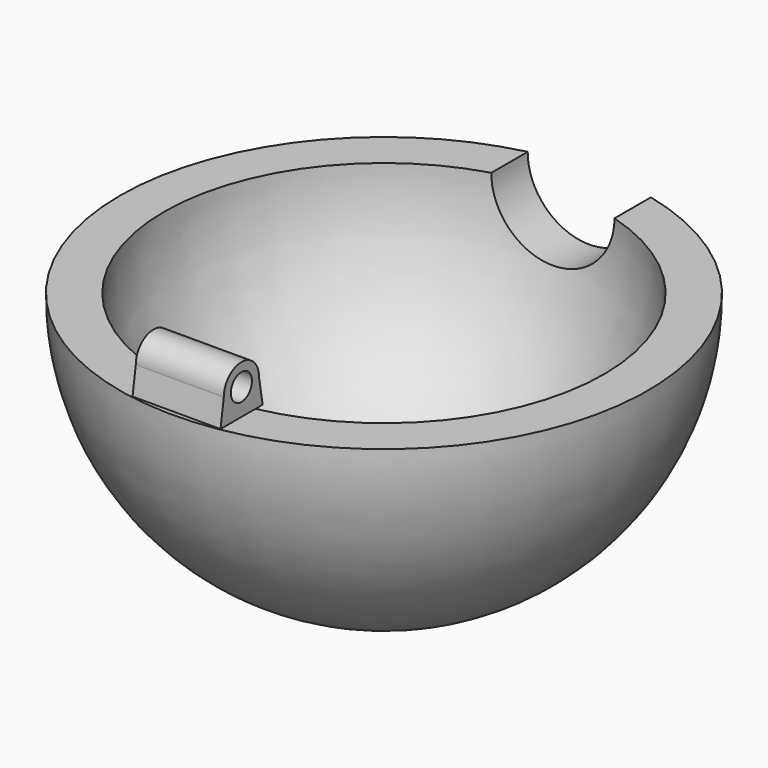
from build123d import *

# Parameters (mm, degrees)
F2_R     = 8.89
F3_DEPTH = 38.101
F4_R     = 1.905
F5_DEPTH = 6.35


with BuildPart() as f1:
    # F0 (on Front) → F1 (revolve)
    with BuildSketch(Plane.XZ):
        with BuildLine():
            Line((-31.75, 0), (-38.1, 0))
            ThreePointArc((-38.1, 0), (-26.940768, -26.940768), (0, -38.1))
            Line((0, -38.1), (0, -31.75))
            ThreePointArc((0, -31.75), (-22.45064, -22.45064), (-31.75, 0))
        make_face()
    revolve(axis=Axis((0, 0, -34.925), (0, 0, -1)))

    # F2 (on Front) → F3 (cut, through all)
    with BuildSketch(Plane.XZ):
        Circle(F2_R)
    extrude(amount=-F3_DEPTH, mode=Mode.SUBTRACT)

    # F4 (on Right) → F5 (join, symmetric)
    with BuildSketch(Plane.YZ):
        with BuildLine():
            Line((-31.75, 0), (-29.81852, 0))
            Line((-29.81852, 0), (-30.480005, 3.815797))
            ThreePointArc((-30.480005, 3.815797), (-33.659864, 6.984996), (-36.829998, 3.80607))
            Line((-36.829998, 3.80607), (-37.415873, 0))
            Line((-37.415873, 0), (-31.75, 0))
        make_face()
        with Locations((-33.655, 3.81)):
            Circle(F4_R, mode=Mode.SUBTRACT)
    extrude(amount=F5_DEPTH, both=True)


solid = f1.part
